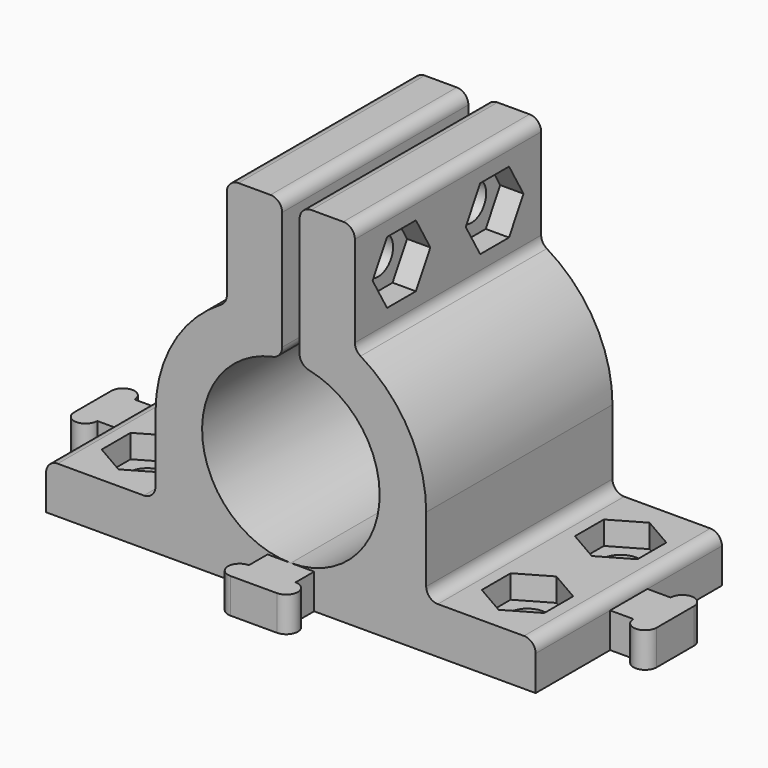
from build123d import *

# Parameters (mm, degrees)
F7_DEPTH  = 10
F8_R      = 1
F10_D     = 3.2
F12_D     = 3.2
F13_DEPTH = 2
F15_DEPTH = 3
F17_DEPTH = 2


with BuildPart() as f7:
    # F6 (on Front) → F7 (new body, symmetric)
    with BuildSketch(Plane.XZ):
        with BuildLine():
            Line((0, 3), (0, 0))
            Line((0, 0), (21.025, 0))
            Line((21.025, 0), (21.025, 4))
            Line((21.025, 4), (11.625, 4))
            Line((11.625, 4), (11.625, 10.625))
            ThreePointArc((11.625, 10.625), (9.9769265057, 16.5917044924), (5.5, 20.8666124219))
            Line((5.5, 20.8666124219), (5.5, 30.2666124219))
            Line((5.5, 30.2666124219), (0.75, 30.2666124219))
            Line((0.75, 30.2666124219), (0.75, 18.2130251054))
            ThreePointArc((0.75, 18.2130251054), (7.6157506665, 10.2495445623), (0, 3))
        make_face()
    extrude(amount=F7_DEPTH, both=True)

    # F8
    f8_edges = [f7.edges().sort_by_distance(p)[0] for p in [
        (0.75, 0, 18.213025),
        (5.5, 0, 30.266612),
        (5.5, 0, 20.866612),
        (11.625, 0, 4),
        (11.625, 0, 10.625),
        (21.025, 0, 4),
        (0.75, 0, 30.266612),
    ]]
    fillet(f8_edges, radius=F8_R)

    # F10 (through all)
    with Locations(Plane.YZ.offset(5.5)):
        with Locations((-5, 25.3573823446), (5, 25.3573823446)):
            Hole(F10_D / 2)

    # F12 (through all)
    with Locations(Plane.XY.offset(4)):
        with Locations((16.325, 5), (16.325, -5)):
            Hole(F12_D / 2)

    # F11 (on face) → F13 (cut)
    with BuildSketch(Plane.XY.offset(4)):
        Polygon((16.325, 8.1), (13.6403212483, 6.55), (13.6403212483, 3.45), (16.325, 1.9), (19.0096787517, 3.45), (19.0096787517, 6.55), align=None)
        Polygon((16.325, -1.9), (13.6403212483, -3.45), (13.6403212483, -6.55), (16.325, -8.1), (19.0096787517, -6.55), (19.0096787517, -3.45), align=None)
    extrude(amount=-F13_DEPTH, mode=Mode.SUBTRACT)

    # F14 (on face) → F15 (join)
    with BuildSketch(Plane(origin=(0, 0, 0), x_dir=(1, 0, 0), z_dir=(0, 0, -1))):
        with BuildLine():
            Line((0, 14), (0, 10))
            Line((0, 10), (2, 10))
            Line((2, 10), (2, 12))
            ThreePointArc((2, 12), (3, 13), (2, 14))
            Line((2, 14), (0, 14))
        make_face()
        with BuildLine():
            Line((21.025, 2), (21.025, 0))
            Line((21.025, 0), (25.025, 0))
            Line((25.025, 0), (25.025, 2))
            ThreePointArc((25.025, 2), (24.025, 3), (23.025, 2))
            Line((23.025, 2), (21.025, 2))
        make_face()
        with BuildLine():
            Line((25.025, 0), (21.025, 0))
            Line((21.025, 0), (21.025, -2))
            Line((21.025, -2), (23.025, -2))
            ThreePointArc((23.025, -2), (24.025, -3), (25.025, -2))
            Line((25.025, -2), (25.025, 0))
        make_face()
    extrude(amount=-F15_DEPTH)

    # F16: F7 across plane


with BuildPart() as f7_1:
    add(f7.part)
    add(f7.part.mirror(Plane.YZ))

    # F9 (on face) → F17 (cut)
    with BuildSketch(Plane.YZ.offset(5.5)):
        Polygon((-1.9, 25.3573823446), (-3.45, 28.0420610963), (-6.55, 28.0420610963), (-8.1, 25.3573823446), (-6.55, 22.6727035928), (-3.45, 22.6727035928), align=None)
        Polygon((6.55, 28.0420610963), (3.45, 28.0420610963), (1.9, 25.3573823446), (3.45, 22.6727035928), (6.55, 22.6727035928), (8.1, 25.3573823446), align=None)
    extrude(amount=-F17_DEPTH, mode=Mode.SUBTRACT)


solid = f7_1.part
